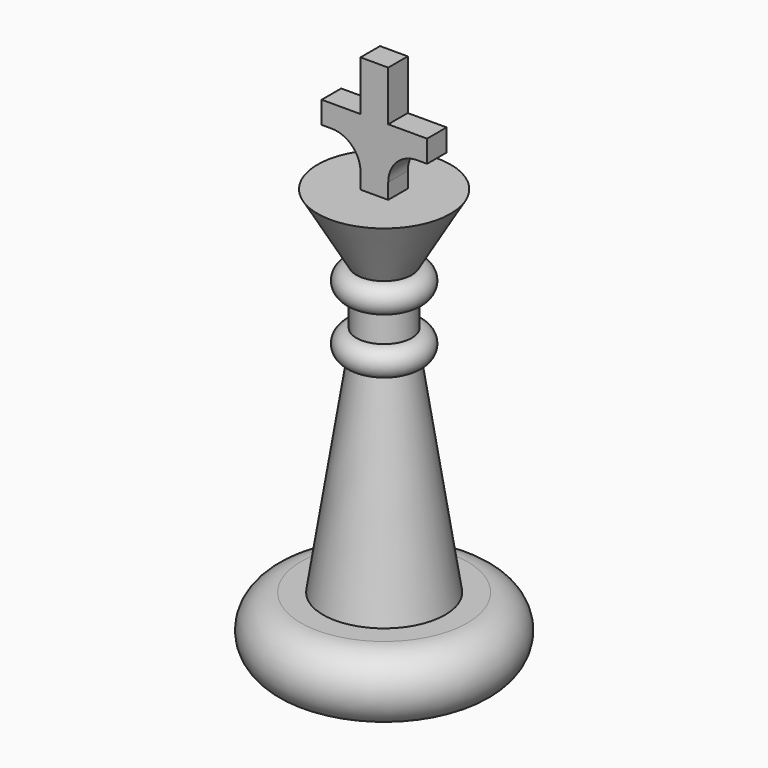
from build123d import *

# Parameters (mm, degrees)
PAD001_DEPTH    = 1.1
SKETCH024_R     = 3.05
POCKET005_DEPTH = 3.1


with BuildPart() as revolution001005:
    # Sketch007 → Revolution001005 (revolve)
    with BuildSketch(Plane.XZ):
        with BuildLine():
            Line((0, 0), (2.5, 0))
            Line((2.5, 24.5), (2.5, 0))
            ThreePointArc((2.5, 24.5), (3.75, 25.75), (2.5, 27))
            Line((2.5, 29.5), (2.5, 27))
            ThreePointArc((2.5, 29.5), (3.75, 30.75), (2.5, 32))
            Line((2.5, 32), (0, 32))
            Line((0, 32), (0, 0))
        make_face()
    revolve(axis=Axis((0, 0, 0), (0, 0, 1)))


with BuildPart() as revolution001004:
    # Sketch006 → Revolution001004 (revolve)
    with BuildSketch(Plane.XZ):
        with BuildLine():
            Line((0, 0), (7.5, 0))
            ThreePointArc((7.5, 0), (10.5, 3), (7.5, 6))
            Line((7.5, 6), (0, 6))
            Line((0, 6), (0, 0))
        make_face()
        Polygon((0, 6), (5.5, 6), (2.5, 25.5), (2.5, 32), (6, 38), (0, 38), align=None)
    revolve(axis=Axis((0, 0, 0), (0, 0, 1)))


with BuildPart() as pocket005:
    # Sketch008 → Pad001 (new body, symmetric)
    with BuildSketch(Plane.XZ):
        with BuildLine():
            Line((-1.25, 37.5), (1.25, 37.5))
            Line((1.25, 37.5), (1.25, 39.4))
            ThreePointArc((3.85, 42), (2.011522, 41.238478), (1.25, 39.4))
            Line((3.85, 42), (4.75, 42))
            Line((4.75, 42), (4.75, 44))
            Line((4.75, 44), (1.25, 44))
            Line((1.25, 44), (1.25, 48.5))
            Line((1.25, 48.5), (-1.25, 48.5))
            Line((-1.25, 48.5), (-1.25, 44))
            Line((-1.25, 44), (-4.75, 44))
            Line((-4.75, 44), (-4.75, 42))
            Line((-4.75, 42), (-3.85, 42))
            ThreePointArc((-1.25, 39.4), (-2.011522, 41.238478), (-3.85, 42))
            Line((-1.25, 39.4), (-1.25, 37.5))
        make_face()
    extrude(amount=PAD001_DEPTH, both=True)

    # Fusion001: union Revolution001005, Revolution001004
    add(revolution001005.part)
    add(revolution001004.part)


with BuildPart() as pocket005_1:
    # Fusion001 placement: moved
    add(pocket005.part.moved(Location((120, 0, 0))))

    # Sketch024 → Pocket005 (cut)
    with BuildSketch(Plane(origin=(120, 0, 0), x_dir=(1, 0, 0), z_dir=(0, 0, -1))):
        Circle(SKETCH024_R)
    extrude(amount=-POCKET005_DEPTH, mode=Mode.SUBTRACT)


solid = pocket005_1.part
